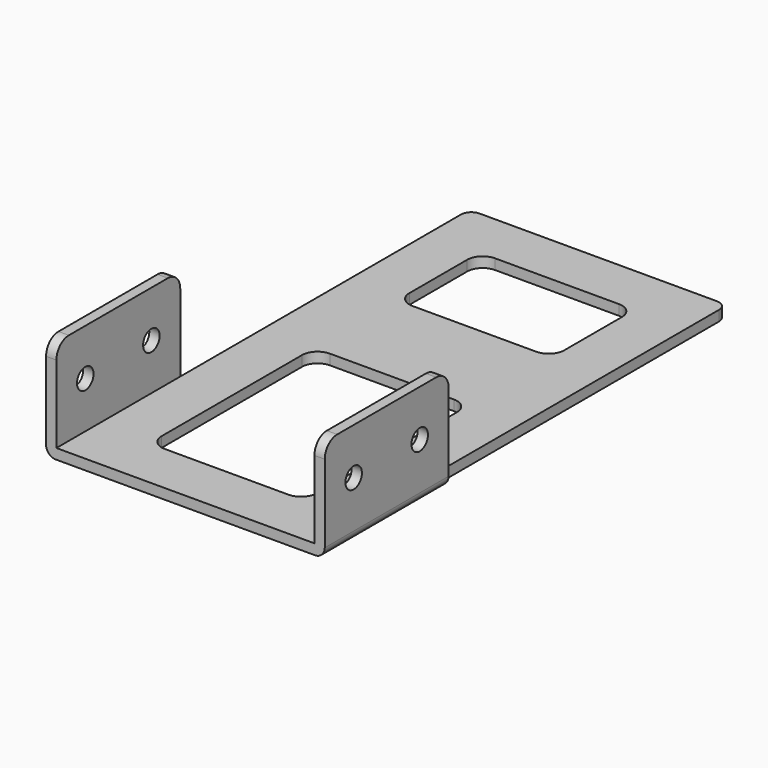
from build123d import *

# Parameters (mm, degrees)
CYLINDER002_R     = 2
CYLINDER002_DEPTH = 10
CYLINDER003_R     = 2
CYLINDER003_DEPTH = 10
BOX004_W          = 2
BOX004_H          = 30
BOX004_DEPTH      = 20
FILLET004_R       = 3
FILLET005_R       = 1.9
CYLINDER_R        = 2
CYLINDER_DEPTH    = 10
CYLINDER001_R     = 2
CYLINDER001_DEPTH = 10
BOX003_W          = 2
BOX003_H          = 30
BOX003_DEPTH      = 20
FILLET003_R       = 3
FILLET006_R       = 1.9
BOX002_W          = 30
BOX002_H          = 40
BOX002_DEPTH      = 10
FILLET002_R       = 3
BOX001_W          = 30
BOX001_H          = 20
BOX001_DEPTH      = 10
FILLET001_R       = 3
BOX_W             = 50
BOX_H             = 100
BOX_DEPTH         = 2
FILLET_R          = 2


with BuildPart() as cilindre002:
    # Cylinder002 → Cylinder002 (new body)
    with BuildSketch(Plane(origin=(-4, 7, 11), x_dir=(0, 0, -1), z_dir=(1, 0, 0))):
        Circle(CYLINDER002_R)
    extrude(amount=CYLINDER002_DEPTH)


with BuildPart() as cilindre003:
    # Cylinder003 → Cylinder003 (new body)
    with BuildSketch(Plane(origin=(-4, 23, 11), x_dir=(0, 0, -1), z_dir=(1, 0, 0))):
        Circle(CYLINDER003_R)
    extrude(amount=CYLINDER003_DEPTH)


with BuildPart() as fillet005:
    # Box004 → Box004 (new body)
    with BuildSketch(Plane.XY):
        with Locations((1, 15)):
            Rectangle(BOX004_W, BOX004_H)
    extrude(amount=BOX004_DEPTH)

    # Fillet004
    fillet004_edges = [fillet005.edges().sort_by_distance(p)[0] for p in [
        (1, 0, 20),
        (1, 30, 20),
    ]]
    fillet(fillet004_edges, radius=FILLET004_R)

    # Cut004: cut Cilindre003
    add(cilindre003.part, mode=Mode.SUBTRACT)

    # Cut005: cut Cilindre002
    add(cilindre002.part, mode=Mode.SUBTRACT)


with BuildPart() as fillet005_1:
    # Cut005 placement: moved
    add(fillet005.part.moved(Location((52, 0, 0))))

    # Fillet005
    fillet005_edges = [fillet005_1.edges().sort_by_distance(p)[0] for p in [
        (54, 15, 0),
    ]]
    fillet(fillet005_edges, radius=FILLET005_R)


with BuildPart() as cilindre:
    # Cylinder → Cylinder (new body)
    with BuildSketch(Plane(origin=(-4, 7, 11), x_dir=(0, 0, -1), z_dir=(1, 0, 0))):
        Circle(CYLINDER_R)
    extrude(amount=CYLINDER_DEPTH)


with BuildPart() as cilindre001:
    # Cylinder001 → Cylinder001 (new body)
    with BuildSketch(Plane(origin=(-4, 23, 11), x_dir=(0, 0, -1), z_dir=(1, 0, 0))):
        Circle(CYLINDER001_R)
    extrude(amount=CYLINDER001_DEPTH)


with BuildPart() as fillet006:
    # Box003 → Box003 (new body)
    with BuildSketch(Plane.XY):
        with Locations((1, 15)):
            Rectangle(BOX003_W, BOX003_H)
    extrude(amount=BOX003_DEPTH)

    # Fillet003
    fillet003_edges = [fillet006.edges().sort_by_distance(p)[0] for p in [
        (1, 0, 20),
        (1, 30, 20),
    ]]
    fillet(fillet003_edges, radius=FILLET003_R)

    # Cut002: cut Cilindre001
    add(cilindre001.part, mode=Mode.SUBTRACT)

    # Cut003: cut Cilindre
    add(cilindre.part, mode=Mode.SUBTRACT)

    # Fillet006
    fillet006_edges = [fillet006.edges().sort_by_distance(p)[0] for p in [
        (0, 15, 0),
    ]]
    fillet(fillet006_edges, radius=FILLET006_R)


with BuildPart() as fusion:
    # Fusion base: copy of Fillet006
    add(fillet006.part)

    # Fusion: union Fillet005
    add(fillet005_1.part)


with BuildPart() as forat2:
    # Box002 → Box002 (new body)
    with BuildSketch(Plane.XY):
        with Locations((15, 20)):
            Rectangle(BOX002_W, BOX002_H)
    extrude(amount=BOX002_DEPTH)

    # Fillet002
    fillet002_edges = [forat2.edges().sort_by_distance(p)[0] for p in [
        (0, 0, 5),
        (0, 40, 5),
        (30, 0, 5),
        (30, 40, 5),
    ]]
    fillet(fillet002_edges, radius=FILLET002_R)


with BuildPart() as forat2_1:
    # Fillet002 placement: moved
    add(forat2.part.moved(Location((10, 10, -5))))


with BuildPart() as forat1:
    # Box001 → Box001 (new body)
    with BuildSketch(Plane.XY):
        with Locations((15, 10)):
            Rectangle(BOX001_W, BOX001_H)
    extrude(amount=BOX001_DEPTH)

    # Fillet001
    fillet001_edges = [forat1.edges().sort_by_distance(p)[0] for p in [
        (0, 0, 5),
        (0, 20, 5),
        (30, 0, 5),
        (30, 20, 5),
    ]]
    fillet(fillet001_edges, radius=FILLET001_R)


with BuildPart() as forat1_1:
    # Fillet001 placement: moved
    add(forat1.part.moved(Location((10, 70, -5))))


with BuildPart() as base:
    # Box → Box (new body)
    with BuildSketch(Plane.XY):
        with Locations((25, 50)):
            Rectangle(BOX_W, BOX_H)
    extrude(amount=BOX_DEPTH)

    # Fillet
    fillet_edges = [base.edges().sort_by_distance(p)[0] for p in [
        (0, 100, 1),
        (50, 100, 1),
    ]]
    fillet(fillet_edges, radius=FILLET_R)

    # Cut: cut forat1
    add(forat1_1.part, mode=Mode.SUBTRACT)

    # Cut001: cut forat2
    add(forat2_1.part, mode=Mode.SUBTRACT)


with BuildPart() as base_1:
    # Cut001 placement: moved
    add(base.part.moved(Location((2, 0, 0))))


with BuildPart() as fusion001:
    # Fusion001 base: copy of Fillet006
    add(fillet006.part)

    # Fusion001: union Fillet005, Fusion, base
    add(fillet005_1.part)
    add(fusion.part)
    add(base_1.part)


solid = fusion001.part
